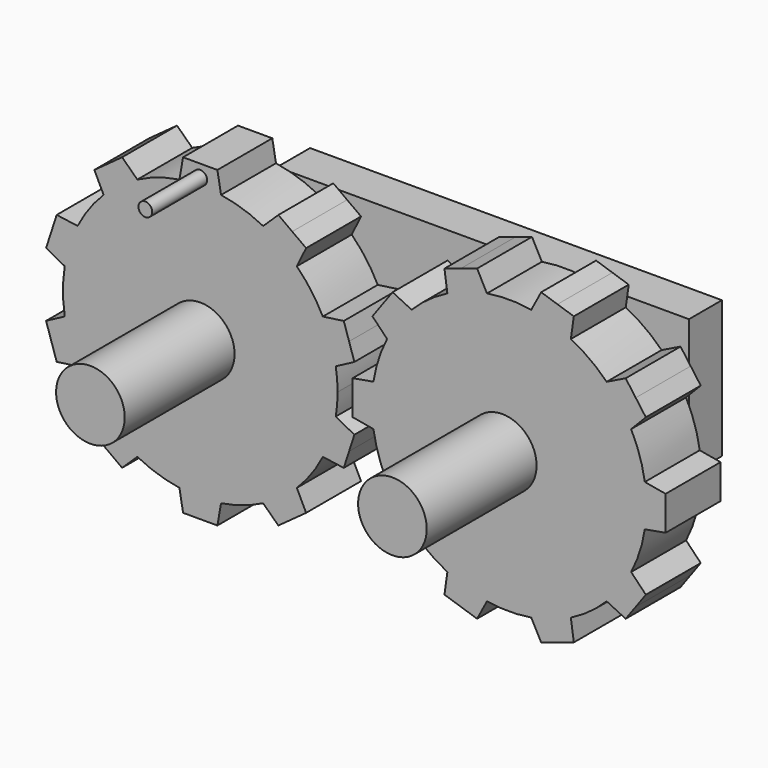
from build123d import *

# Parameters (mm, degrees)
F1_DEPTH  = 5
F3_DEPTH  = 5
F5_R      = 2.5
F6_DEPTH  = 25
F9_DEPTH  = 25
F11_W     = 30
F11_H     = 10
F12_DEPTH = 3
F13_R     = 0.5
F14_DEPTH = 5


with BuildPart() as f1:
    # F0 (on Front) → F1 (new body)
    with BuildSketch(Plane.XZ):
        with BuildLine():
            ThreePointArc((9.869319, -1.611382), (9.967276, -0.808336), (10, 0))
            ThreePointArc((10, 0), (9.967276, 0.808336), (9.869319, 1.611382))
            ThreePointArc((9.869319, 1.611382), (9.510565, 3.09017), (8.931593, 4.497405))
            ThreePointArc((8.931593, 4.497405), (8.09017, 5.877853), (7.0373, 7.104675))
            ThreePointArc((7.0373, 7.104675), (5.877853, 8.09017), (4.582302, 8.888335))
            ThreePointArc((4.582302, 8.888335), (3.09017, 9.510565), (1.517272, 9.884224))
            ThreePointArc((1.517272, 9.884224), (0, 10), (-1.517272, 9.884224))
            ThreePointArc((-1.517272, 9.884224), (-3.09017, 9.510565), (-4.582302, 8.888335))
            ThreePointArc((-4.582302, 8.888335), (-5.877853, 8.09017), (-7.0373, 7.104675))
            ThreePointArc((-7.0373, 7.104675), (-8.09017, 5.877853), (-8.931593, 4.497405))
            ThreePointArc((-8.931593, 4.497405), (-9.510565, 3.09017), (-9.869319, 1.611382))
            ThreePointArc((-9.869319, 1.611382), (-10, 0), (-9.869319, -1.611382))
            ThreePointArc((-9.869319, -1.611382), (-9.510565, -3.09017), (-8.931593, -4.497405))
            ThreePointArc((-8.931593, -4.497405), (-8.09017, -5.877853), (-7.0373, -7.104675))
            ThreePointArc((-7.0373, -7.104675), (-5.877853, -8.09017), (-4.582302, -8.888335))
            ThreePointArc((-4.582302, -8.888335), (-3.09017, -9.510565), (-1.517272, -9.884224))
            ThreePointArc((-1.517272, -9.884224), (0, -10), (1.517272, -9.884224))
            ThreePointArc((1.517272, -9.884224), (3.09017, -9.510565), (4.582302, -8.888335))
            ThreePointArc((4.582302, -8.888335), (5.877853, -8.09017), (7.0373, -7.104675))
            ThreePointArc((7.0373, -7.104675), (8.09017, -5.877853), (8.931593, -4.497405))
            ThreePointArc((8.931593, -4.497405), (9.510565, -3.09017), (9.869319, -1.611382))
        make_face()
        with BuildLine():
            ThreePointArc((8.931593, 4.497405), (9.510565, 3.09017), (9.869319, 1.611382))
            Line((9.869319, 1.611382), (11.228316, 2.333973))
            Line((11.228316, 2.333973), (10.842044, 3.522794))
            Line((10.842044, 3.522794), (10.455773, 4.711614))
            Line((10.455773, 4.711614), (8.931593, 4.497405))
        make_face()
        with BuildLine():
            Line((11.228316, -2.333973), (9.869319, -1.611382))
            ThreePointArc((9.869319, -1.611382), (9.510565, -3.09017), (8.931593, -4.497405))
            Line((8.931593, -4.497405), (10.455773, -4.711614))
            Line((10.455773, -4.711614), (10.842044, -3.522794))
            Line((10.842044, -3.522794), (11.228316, -2.333973))
        make_face()
        with BuildLine():
            ThreePointArc((4.582302, 8.888335), (5.877853, 8.09017), (7.0373, 7.104675))
            Line((7.0373, 7.104675), (7.712023, 8.488062))
            Line((7.712023, 8.488062), (6.700752, 9.222794))
            Line((6.700752, 9.222794), (5.689481, 9.957525))
            Line((5.689481, 9.957525), (4.582302, 8.888335))
        make_face()
        with BuildLine():
            Line((7.712023, -8.488062), (7.0373, -7.104675))
            ThreePointArc((7.0373, -7.104675), (5.877853, -8.09017), (4.582302, -8.888335))
            Line((4.582302, -8.888335), (5.689481, -9.957525))
            Line((5.689481, -9.957525), (6.700752, -9.222794))
            Line((6.700752, -9.222794), (7.712023, -8.488062))
        make_face()
        with BuildLine():
            ThreePointArc((-1.517272, 9.884224), (0, 10), (1.517272, 9.884224))
            Line((1.517272, 9.884224), (1.25, 11.4))
            Line((1.25, 11.4), (0, 11.4))
            Line((0, 11.4), (-1.25, 11.4))
            Line((-1.25, 11.4), (-1.517272, 9.884224))
        make_face()
        with BuildLine():
            Line((1.25, -11.4), (1.517272, -9.884224))
            ThreePointArc((1.517272, -9.884224), (0, -10), (-1.517272, -9.884224))
            Line((-1.517272, -9.884224), (-1.25, -11.4))
            Line((-1.25, -11.4), (0, -11.4))
            Line((0, -11.4), (1.25, -11.4))
        make_face()
        with BuildLine():
            ThreePointArc((-7.0373, 7.104675), (-5.877853, 8.09017), (-4.582302, 8.888335))
            Line((-4.582302, 8.888335), (-5.689481, 9.957525))
            Line((-5.689481, 9.957525), (-6.700752, 9.222794))
            Line((-6.700752, 9.222794), (-7.712023, 8.488062))
            Line((-7.712023, 8.488062), (-7.0373, 7.104675))
        make_face()
        with BuildLine():
            Line((-5.689481, -9.957525), (-4.582302, -8.888335))
            ThreePointArc((-4.582302, -8.888335), (-5.877853, -8.09017), (-7.0373, -7.104675))
            Line((-7.0373, -7.104675), (-7.712023, -8.488062))
            Line((-7.712023, -8.488062), (-6.700752, -9.222794))
            Line((-6.700752, -9.222794), (-5.689481, -9.957525))
        make_face()
        with BuildLine():
            ThreePointArc((-9.869319, 1.611382), (-9.510565, 3.09017), (-8.931593, 4.497405))
            Line((-8.931593, 4.497405), (-10.455773, 4.711614))
            Line((-10.455773, 4.711614), (-10.842044, 3.522794))
            Line((-10.842044, 3.522794), (-11.228316, 2.333973))
            Line((-11.228316, 2.333973), (-9.869319, 1.611382))
        make_face()
        with BuildLine():
            Line((-10.455773, -4.711614), (-8.931593, -4.497405))
            ThreePointArc((-8.931593, -4.497405), (-9.510565, -3.09017), (-9.869319, -1.611382))
            Line((-9.869319, -1.611382), (-11.228316, -2.333973))
            Line((-11.228316, -2.333973), (-10.842044, -3.522794))
            Line((-10.842044, -3.522794), (-10.455773, -4.711614))
        make_face()
    extrude(amount=F1_DEPTH)


with BuildPart() as f3:
    # F2 (on Front) → F3 (new body)
    with BuildSketch(Plane.XZ):
        with BuildLine():
            Line((11.1, 1.25), (11.1, 0))
            Line((11.1, 0), (12.5, 0))
            ThreePointArc((12.5, 0), (12.528986, 0.760841), (12.615776, 1.517272))
            Line((12.615776, 1.517272), (11.1, 1.25))
        make_face()
        with BuildLine():
            Line((12.5, 0), (11.1, 0))
            Line((11.1, 0), (11.1, -1.25))
            Line((11.1, -1.25), (12.615776, -1.517272))
            ThreePointArc((12.615776, -1.517272), (12.528986, -0.760841), (12.5, 0))
        make_face()
        with BuildLine():
            ThreePointArc((12.615776, 1.517272), (12.528986, 0.760841), (12.5, 0))
            ThreePointArc((12.5, 0), (12.528986, -0.760841), (12.615776, -1.517272))
            ThreePointArc((12.615776, -1.517272), (12.989435, -3.09017), (13.611665, -4.582302))
            ThreePointArc((13.611665, -4.582302), (14.40983, -5.877853), (15.395325, -7.0373))
            ThreePointArc((15.395325, -7.0373), (16.622147, -8.09017), (18.002595, -8.931593))
            ThreePointArc((18.002595, -8.931593), (19.40983, -9.510565), (20.888618, -9.869319))
            ThreePointArc((20.888618, -9.869319), (22.5, -10), (24.111382, -9.869319))
            ThreePointArc((24.111382, -9.869319), (25.59017, -9.510565), (26.997405, -8.931593))
            ThreePointArc((26.997405, -8.931593), (28.377853, -8.09017), (29.604675, -7.0373))
            ThreePointArc((29.604675, -7.0373), (30.59017, -5.877853), (31.388335, -4.582302))
            ThreePointArc((31.388335, -4.582302), (32.010565, -3.09017), (32.384224, -1.517272))
            ThreePointArc((32.384224, -1.517272), (32.471014, -0.760841), (32.5, 0))
            ThreePointArc((32.5, 0), (32.471014, 0.760841), (32.384224, 1.517272))
            ThreePointArc((32.384224, 1.517272), (32.010565, 3.09017), (31.388335, 4.582302))
            ThreePointArc((31.388335, 4.582302), (30.59017, 5.877853), (29.604675, 7.0373))
            ThreePointArc((29.604675, 7.0373), (28.377853, 8.09017), (26.997405, 8.931593))
            ThreePointArc((26.997405, 8.931593), (25.59017, 9.510565), (24.111382, 9.869319))
            ThreePointArc((24.111382, 9.869319), (22.5, 10), (20.888618, 9.869319))
            ThreePointArc((20.888618, 9.869319), (19.40983, 9.510565), (18.002595, 8.931593))
            ThreePointArc((18.002595, 8.931593), (16.622147, 8.09017), (15.395325, 7.0373))
            ThreePointArc((15.395325, 7.0373), (14.40983, 5.877853), (13.611665, 4.582302))
            ThreePointArc((13.611665, 4.582302), (12.989435, 3.09017), (12.615776, 1.517272))
        make_face()
        with BuildLine():
            Line((12.542475, 5.689481), (13.611665, 4.582302))
            ThreePointArc((13.611665, 4.582302), (14.40983, 5.877853), (15.395325, 7.0373))
            Line((15.395325, 7.0373), (14.011938, 7.712023))
            Line((14.011938, 7.712023), (13.277206, 6.700752))
            Line((13.277206, 6.700752), (12.542475, 5.689481))
        make_face()
        with BuildLine():
            ThreePointArc((15.395325, -7.0373), (14.40983, -5.877853), (13.611665, -4.582302))
            Line((13.611665, -4.582302), (12.542475, -5.689481))
            Line((12.542475, -5.689481), (13.277206, -6.700752))
            Line((13.277206, -6.700752), (14.011938, -7.712023))
            Line((14.011938, -7.712023), (15.395325, -7.0373))
        make_face()
        with BuildLine():
            Line((17.788386, 10.455773), (18.002595, 8.931593))
            ThreePointArc((18.002595, 8.931593), (19.40983, 9.510565), (20.888618, 9.869319))
            Line((20.888618, 9.869319), (20.166027, 11.228316))
            Line((20.166027, 11.228316), (18.977206, 10.842044))
            Line((18.977206, 10.842044), (17.788386, 10.455773))
        make_face()
        with BuildLine():
            ThreePointArc((20.888618, -9.869319), (19.40983, -9.510565), (18.002595, -8.931593))
            Line((18.002595, -8.931593), (17.788386, -10.455773))
            Line((17.788386, -10.455773), (18.977206, -10.842044))
            Line((18.977206, -10.842044), (20.166027, -11.228316))
            Line((20.166027, -11.228316), (20.888618, -9.869319))
        make_face()
        with BuildLine():
            Line((24.833973, 11.228316), (24.111382, 9.869319))
            ThreePointArc((24.111382, 9.869319), (25.59017, 9.510565), (26.997405, 8.931593))
            Line((26.997405, 8.931593), (27.211614, 10.455773))
            Line((27.211614, 10.455773), (26.022794, 10.842044))
            Line((26.022794, 10.842044), (24.833973, 11.228316))
        make_face()
        with BuildLine():
            ThreePointArc((26.997405, -8.931593), (25.59017, -9.510565), (24.111382, -9.869319))
            Line((24.111382, -9.869319), (24.833973, -11.228316))
            Line((24.833973, -11.228316), (26.022794, -10.842044))
            Line((26.022794, -10.842044), (27.211614, -10.455773))
            Line((27.211614, -10.455773), (26.997405, -8.931593))
        make_face()
        with BuildLine():
            Line((30.988062, 7.712023), (29.604675, 7.0373))
            ThreePointArc((29.604675, 7.0373), (30.59017, 5.877853), (31.388335, 4.582302))
            Line((31.388335, 4.582302), (32.457525, 5.689481))
            Line((32.457525, 5.689481), (31.722794, 6.700752))
            Line((31.722794, 6.700752), (30.988062, 7.712023))
        make_face()
        with BuildLine():
            ThreePointArc((31.388335, -4.582302), (30.59017, -5.877853), (29.604675, -7.0373))
            Line((29.604675, -7.0373), (30.988062, -7.712023))
            Line((30.988062, -7.712023), (31.722794, -6.700752))
            Line((31.722794, -6.700752), (32.457525, -5.689481))
            Line((32.457525, -5.689481), (31.388335, -4.582302))
        make_face()
        with BuildLine():
            Line((33.9, 1.25), (32.384224, 1.517272))
            ThreePointArc((32.384224, 1.517272), (32.471014, 0.760841), (32.5, 0))
            ThreePointArc((32.5, 0), (32.471014, -0.760841), (32.384224, -1.517272))
            Line((32.384224, -1.517272), (33.9, -1.25))
            Line((33.9, -1.25), (33.9, 0))
            Line((33.9, 0), (33.9, 1.25))
        make_face()
    extrude(amount=F3_DEPTH)


with BuildPart() as f6:
    # F5 (on offset) → F6 (new body)
    with BuildSketch(Plane.XZ.offset(-10)):
        Circle(F5_R)
    extrude(amount=F6_DEPTH)



with BuildPart() as f1_1:
    add(f1.part)

    # F7: cut F6
    add(f6.part, mode=Mode.SUBTRACT)


with BuildPart() as f9:
    # F8 (on offset) → F9 (new body)
    with BuildSketch(Plane.XZ.offset(-10)):
        with BuildLine():
            ThreePointArc((19.5, 0), (22, -2.5), (24.5, 0))
            ThreePointArc((24.5, 0), (22, 2.5), (19.5, 0))
        make_face()
    extrude(amount=F9_DEPTH)


with BuildPart() as f3_1:
    add(f3.part)

    # F10: cut F9
    add(f9.part, mode=Mode.SUBTRACT)


with BuildPart() as f6_1:
    add(f6.part)

    add(f9.part)  # F12 merges F9
    # F11 (on offset) → F12 (join)
    with BuildSketch(Plane.XZ.offset(-10)):
        with Locations((11, 0)):
            Rectangle(F11_W, F11_H)
    extrude(amount=F12_DEPTH)


with BuildPart() as f14:
    # F13 (on face) → F14 (new body)
    with BuildSketch(Plane.XZ.offset(5)):
        with Locations((0, 10.5)):
            Circle(F13_R)
    extrude(amount=F14_DEPTH)


solid = Compound([f1_1.part, f3_1.part, f6_1.part, f14.part])
